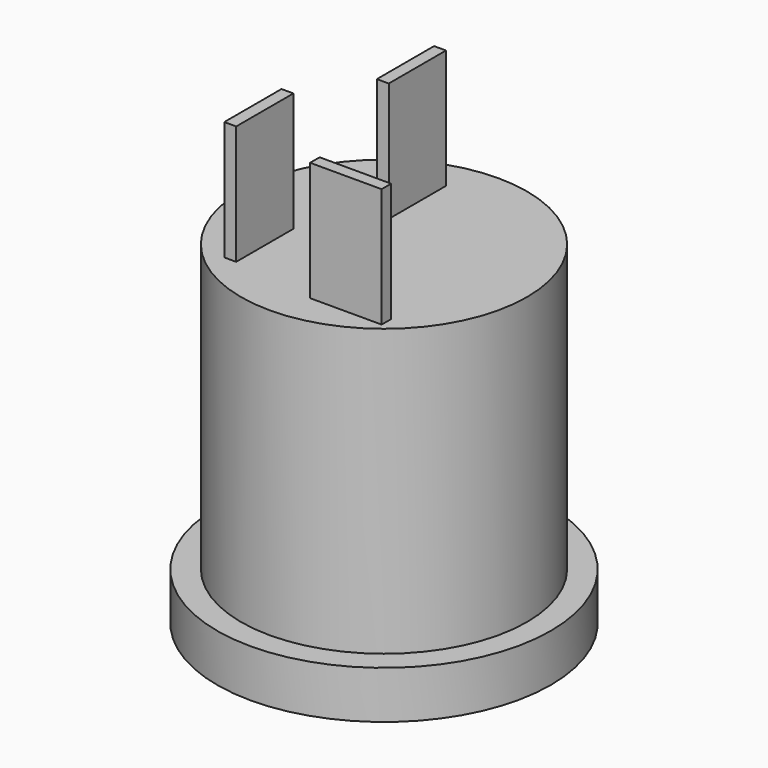
from build123d import *

# Parameters (mm, degrees)
SKETCH_R      = 7
PAD_DEPTH     = 2
SKETCH001_R   = 6
PAD001_DEPTH  = 12
SKETCH002_W   = 0.5
SKETCH002_H   = 3
SKETCH002_W_2 = 3
SKETCH002_H_2 = 0.5
PAD002_DEPTH  = 5
SKETCH003_R   = 3
POCKET_DEPTH  = 10
SKETCH004_R   = 1
PAD003_DEPTH  = 8


with BuildPart() as part:
    # Sketch → Pad (new body)
    with BuildSketch(Plane.XY):
        Circle(SKETCH_R)
    extrude(amount=PAD_DEPTH)

    # Sketch001 (on Face3 of Pad) → Pad001 (join)
    with BuildSketch(Plane.XY.offset(2)):
        Circle(SKETCH001_R)
    extrude(amount=PAD001_DEPTH)

    # Sketch002 (on Face5 of Pad001) → Pad002 (join)
    with BuildSketch(Plane.XY.offset(14)):
        with Locations((-1.25, 3)):
            Rectangle(SKETCH002_W, SKETCH002_H)
        with Locations((-3.25, -2.5)):
            Rectangle(SKETCH002_W, SKETCH002_H)
        with Locations((2, -4.25)):
            Rectangle(SKETCH002_W_2, SKETCH002_H_2)
    extrude(amount=PAD002_DEPTH)

    # Sketch003 (on Face2 of Pad002) → Pocket (cut)
    with BuildSketch(Plane(origin=(0, 0, 0), x_dir=(1, 0, 0), z_dir=(0, 0, -1))):
        with Locations((3, 0)):
            Circle(SKETCH003_R)
    extrude(amount=-POCKET_DEPTH, mode=Mode.SUBTRACT)

    # Sketch004 (on Face6 of Pocket) → Pad003 (join)
    with BuildSketch(Plane(origin=(0, 0, 10), x_dir=(1, 0, 0), z_dir=(0, 0, -1))):
        with Locations((3, 0)):
            Circle(SKETCH004_R)
    extrude(amount=PAD003_DEPTH)


solid = part.part
